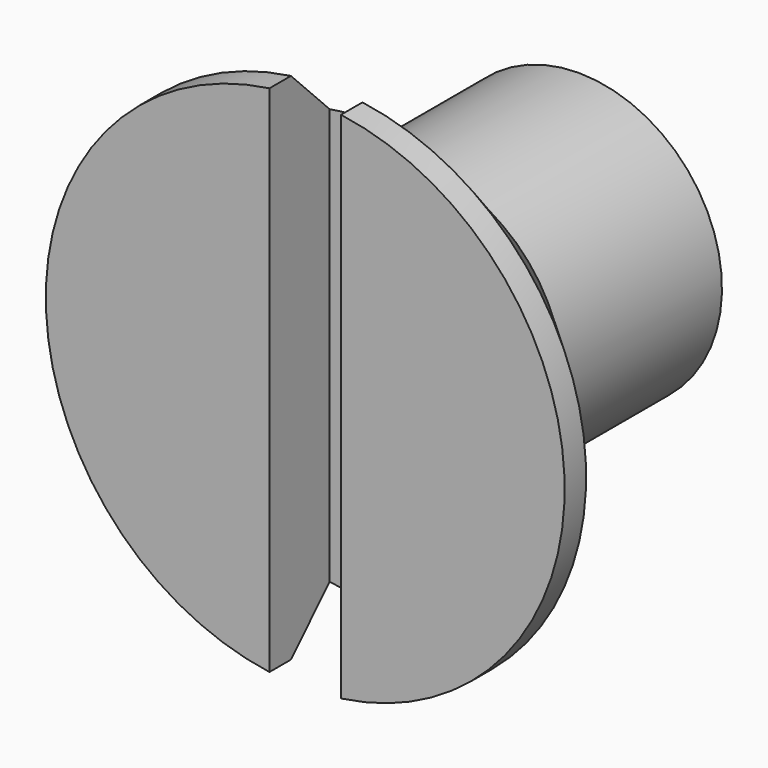
from build123d import *

# Parameters (mm, degrees)
SKETCH001_W  = 14.5
SKETCH001_H  = 2
POCKET_DEPTH = 2.1


with BuildPart() as part:
    # Sketch → Revolution (revolve)
    with BuildSketch(Plane.YZ):
        Polygon((0, 0), (0, 7.25), (0.75, 7.25), (4, 4), (9.558327, 4), (10, 3.235), (10, 0), align=None)
    revolve(axis=Axis((0, 0, 0), (0, 1, 0)))

    # Sketch001 → Pocket (cut)
    with BuildSketch(Plane(origin=(0, 0, 0), x_dir=(0, 0, -1), z_dir=(0, -1, 0))):
        Rectangle(SKETCH001_W, SKETCH001_H)
    extrude(amount=-POCKET_DEPTH, mode=Mode.SUBTRACT)


solid = part.part
